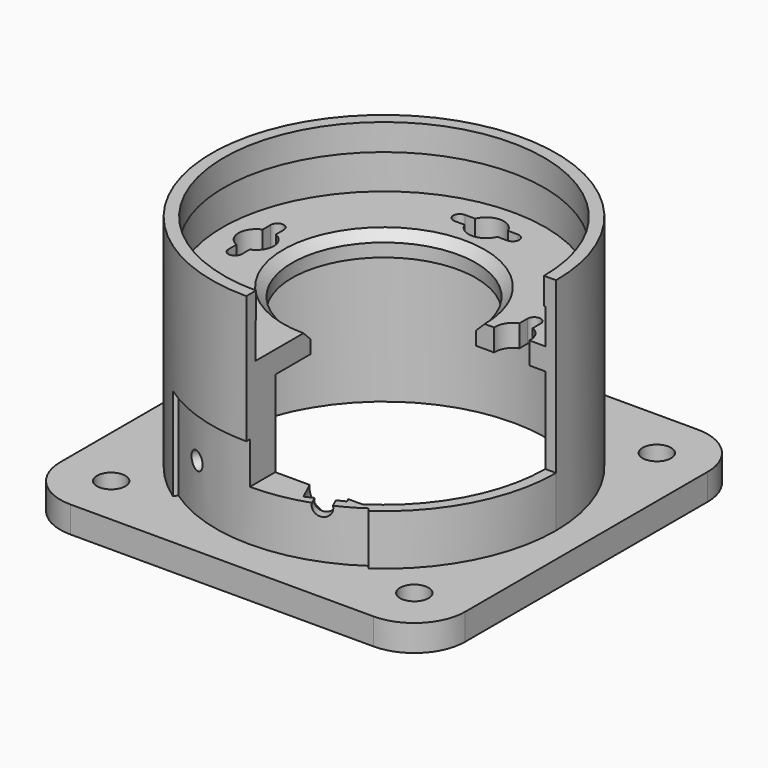
from build123d import *

# Parameters (mm, degrees)
SKETCH_R        = 3.231406
PAD_DEPTH       = 6
SKETCH001_R     = 39.053421
SKETCH001_R_2   = 36.311054
PAD001_DEPTH    = 50
POCKET_DEPTH    = 21
PAD002_DEPTH    = 44
SKETCH005_R     = 4
POCKET001_DEPTH = 8
SKETCH004_R     = 4
POCKET002_DEPTH = 8
SKETCH006_R     = 2
POCKET003_DEPTH = 33.1588870995
SKETCH007_R     = 2
POCKET004_DEPTH = 33.1588870995
POCKET005_DEPTH = 50.001
SKETCH009_R     = 36.442774
POCKET006_DEPTH = 13
SKETCH010_R     = 37.170227
SKETCH010_R_2   = 20.844548
PAD003_DEPTH    = 5
CHAMFER_SIZE    = 2
POCKET007_DEPTH = 5
SKETCH013_W     = 50.953362
SKETCH013_H     = 47.461643
POCKET008_DEPTH = 24.5


with BuildPart() as part:
    # Sketch → Pad (new body)
    with BuildSketch(Plane.XY):
        with BuildLine():
            ThreePointArc((34.394901, -45.939491), (42.558158875, -42.558158875), (45.939491, -34.394901))
            Line((45.939491, 34.394901), (45.939491, -34.394901))
            ThreePointArc((45.939491, 34.394901), (42.558158875, 42.558158875), (34.394901, 45.939491))
            Line((-34.394901, 45.939491), (34.394901, 45.939491))
            ThreePointArc((-34.394901, 45.939491), (-42.558158875, 42.558158875), (-45.939491, 34.394901))
            Line((-45.939491, -34.394901), (-45.939491, 34.394901))
            ThreePointArc((-45.939491, -34.394901), (-42.558158875, -42.558158875), (-34.394901, -45.939491))
            Line((34.394901, -45.939491), (-34.394901, -45.939491))
        make_face()
        with Locations((-34.394901, 34.394901)):
            Circle(SKETCH_R, mode=Mode.SUBTRACT)
        with Locations((34.394901, 34.394901)):
            Circle(SKETCH_R, mode=Mode.SUBTRACT)
        with Locations((-34.394901, -34.394901)):
            Circle(SKETCH_R, mode=Mode.SUBTRACT)
        with Locations((34.394901, -34.394901)):
            Circle(SKETCH_R, mode=Mode.SUBTRACT)
    extrude(amount=PAD_DEPTH)

    # Sketch001 (on Face14 of Pad) → Pad001 (join)
    with BuildSketch(Plane.XY.offset(6)):
        Circle(SKETCH001_R)
        Circle(SKETCH001_R_2, mode=Mode.SUBTRACT)
    extrude(amount=PAD001_DEPTH)

    # Sketch002 (on Face14 of Pad) → Pocket (cut)
    with BuildSketch(Plane.XY.offset(6)):
        with BuildLine():
            ThreePointArc((-21.5988223559, -31.3292084741), (0, -38.0529687512), (21.5988223559, -31.3292084741))
            Line((21.5988223559, -31.3292084741), (22.7946876619, -32.8694723778))
            ThreePointArc((-22.7946613357, -32.8694906348), (1.60187e-05, -40), (22.7946876619, -32.8694723778))
            Line((-21.5988223559, -31.3292084741), (-22.7946613357, -32.8694906348))
        make_face()
    extrude(amount=POCKET_DEPTH, mode=Mode.SUBTRACT)

    # Sketch003 (on Face24 of Pocket) → Pad002 (join)
    with BuildSketch(Plane.XY.offset(6)):
        with BuildLine():
            ThreePointArc((-33.0264474223, -15.3752616453), (0, -36.43), (33.0264474223, -15.3752616453))
            Line((0, -30.775747), (33.0264474223, -15.3752616453))
            Line((-33.0264474223, -15.3752616453), (0, -30.775747))
        make_face()
    extrude(amount=PAD002_DEPTH)

    # Sketch005 (on Face27 of Pad002) → Pocket001 (cut)
    with BuildSketch(Plane(origin=(11.7877949861, -25.2790079252, 0), x_dir=(-0.906307787, -0.4226182617, 0), z_dir=(-0.4226182617, 0.906307787, 0))):
        with Locations((2, 17)):
            Circle(SKETCH005_R)
    extrude(amount=-POCKET001_DEPTH, mode=Mode.SUBTRACT)

    # Sketch004 (on Face25 of Pad002) → Pocket002 (cut)
    with BuildSketch(Plane(origin=(-11.7877949861, -25.2790079252, 0), x_dir=(-0.906307787, 0.4226182617, 0), z_dir=(0.4226182617, 0.906307787, 0))):
        with Locations((-2, 17)):
            Circle(SKETCH004_R)
    extrude(amount=-POCKET002_DEPTH, mode=Mode.SUBTRACT)

    # Sketch006 (on Face27 of Pad002) → Pocket003 (cut, through all)
    with BuildSketch(Plane(origin=(11.7877949861, -25.2790079252, 0), x_dir=(-0.906307787, -0.4226182617, 0), z_dir=(-0.4226182617, 0.906307787, 0))):
        with Locations((2, 17)):
            Circle(SKETCH006_R)
    extrude(amount=-POCKET003_DEPTH, mode=Mode.SUBTRACT)

    # Sketch007 (on Face25 of Pad002) → Pocket004 (cut, through all)
    with BuildSketch(Plane(origin=(-11.7877949861, -25.2790079252, 0), x_dir=(-0.906307787, 0.4226182617, 0), z_dir=(0.4226182617, 0.906307787, 0))):
        with Locations((-2, 17)):
            Circle(SKETCH007_R)
    extrude(amount=-POCKET004_DEPTH, mode=Mode.SUBTRACT)

    # Sketch008 (on Face28 of Pocket004) → Pocket005 (cut, through all)
    with BuildSketch(Plane.XY.offset(50)):
        with BuildLine():
            ThreePointArc((19.7091874975, -30.8400377462), (0, 36.6), (-19.7091874975, -30.8400377462))
            Line((19.7091874975, -30.8400377462), (-19.7091874975, -30.8400377462))
        make_face()
    extrude(amount=-POCKET005_DEPTH, mode=Mode.SUBTRACT)

    # Sketch009 (on Face20 of Pocket005) → Pocket006 (cut)
    with BuildSketch(Plane.XY.offset(50)):
        Circle(SKETCH009_R)
    extrude(amount=-POCKET006_DEPTH, mode=Mode.SUBTRACT)

    # Sketch010 (on Face21 of Pocket006) → Pad003 (join)
    with BuildSketch(Plane.XY.offset(37)):
        Circle(SKETCH010_R)
        Circle(SKETCH010_R_2, mode=Mode.SUBTRACT)
    extrude(amount=PAD003_DEPTH)

    # Chamfer
    chamfer_edges = [part.edges().sort_by_distance(p)[0] for p in [
        (-20.844548, 0, 42),
    ]]
    chamfer(chamfer_edges, length=CHAMFER_SIZE)

    # Sketch012 (on Face4 of Chamfer) → Pocket007 (cut)
    with BuildSketch(Plane.XY.offset(42)):
        with BuildLine():
            ThreePointArc((-30.5, 3.7080992435), (-33, 0), (-30.5, -3.7080992435))
            Line((-30.5, -3.7080992435), (-30.5, -6))
            ThreePointArc((-30.5, -6), (-29, -7.5), (-27.5, -6))
            Line((-27.5, -6), (-27.5, -3.7080992435))
            ThreePointArc((-27.5, -3.7080992435), (-25, 0), (-27.5, 3.7080992435))
            Line((-27.5, 3.7080992435), (-27.5, 6))
            ThreePointArc((-27.5, 6), (-29, 7.5), (-30.5, 6))
            Line((-30.5, 6), (-30.5, 3.7080992435))
        make_face()
        with BuildLine():
            ThreePointArc((-3.7080992435, 27.5), (0, 25), (3.7080992435, 27.5))
            Line((3.7080992435, 27.5), (6, 27.5))
            ThreePointArc((6, 27.5), (7.5, 29), (6, 30.5))
            Line((6, 30.5), (3.7080992435, 30.5))
            ThreePointArc((3.7080992435, 30.5), (0, 33), (-3.7080992435, 30.5))
            Line((-3.7080992435, 30.5), (-6, 30.5))
            ThreePointArc((-6, 30.5), (-7.5, 29), (-6, 27.5))
            Line((-6, 27.5), (-3.7080992435, 27.5))
        make_face()
        with BuildLine():
            ThreePointArc((27.4981368357, 4.0368241404), (24.9981368357, 0.3287248968), (27.4981368357, -3.3793743467))
            Line((27.4981368357, -3.3793743467), (27.4981368357, -5.6712751032))
            ThreePointArc((27.4981368357, -5.6712751032), (28.9981368357, -7.1712751032), (30.4981368357, -5.6712751032))
            Line((30.4981368357, -5.6712751032), (30.4981368357, -3.3793743467))
            ThreePointArc((30.4981368357, -3.3793743467), (32.9981368357, 0.3287248968), (30.4981368357, 4.0368241404))
            Line((30.4981368357, 4.0368241404), (30.4981368357, 6.3287248968))
            ThreePointArc((30.4981368357, 6.3287248968), (28.9981368357, 7.8287248968), (27.4981368357, 6.3287248968))
            Line((27.4981368357, 6.3287248968), (27.4981368357, 4.0368241404))
        make_face()
    extrude(amount=-POCKET007_DEPTH, mode=Mode.SUBTRACT)

    # Sketch013 (on Face4 of Pocket007) → Pocket008 (cut, symmetric)
    with BuildSketch(Plane.XY.offset(42)):
        with Locations((25.476681, -23.7308215)):
            Rectangle(SKETCH013_W, SKETCH013_H)
    extrude(amount=POCKET008_DEPTH, both=True, mode=Mode.SUBTRACT)


solid = part.part
